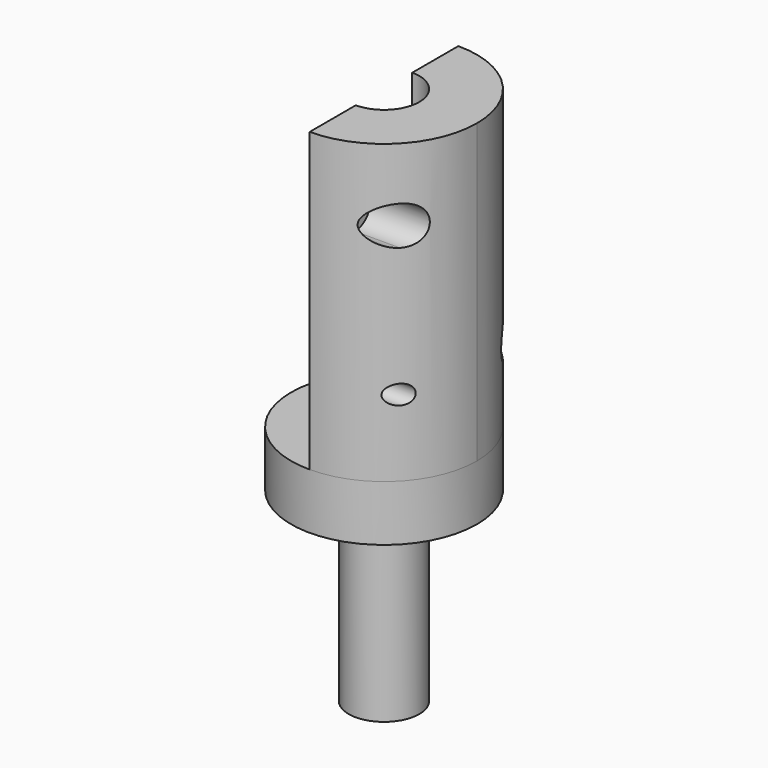
from build123d import *

# Parameters (mm, degrees)
F0_R      = 9.5
F1_DEPTH  = 50
F2_R      = 25
F3_DEPTH  = 15
F5_DEPTH  = 80
F6_R      = 2.6
F7_DEPTH  = 25.001
F9_R      = 5.25
F10_DEPTH = 25
F13_DEPTH = 3.5


with BuildPart() as f1:
    # F0 (on Top) → F1 (new body)
    with BuildSketch(Plane.XY):
        Circle(F0_R)
    extrude(amount=F1_DEPTH)

    # F2 (on face) → F3 (join)
    with BuildSketch(Plane.XY.offset(50)):
        Circle(F2_R)
    extrude(amount=F3_DEPTH)

    # F4 (on face) → F5 (join)
    with BuildSketch(Plane.XY.offset(65)):
        with BuildLine():
            ThreePointArc((0, 9.5), (9.5, 0), (0, -9.5))
            Line((0, -9.5), (0, -25))
            ThreePointArc((0, -25), (17.6776695297, -17.6776695297), (25, 0))
            ThreePointArc((25, 0), (17.6776695297, 17.6776695297), (0, 25))
            Line((0, 25), (0, 9.5))
        make_face()
    extrude(amount=F5_DEPTH)

    # F6 (on face) → F7 (cut, through all)
    with BuildSketch(Plane(origin=(0, 0, 0), x_dir=(0, -1, 0), z_dir=(-1, 0, 0))):
        with Locations((17.25, 85.5)):
            Circle(F6_R)
        with Locations((17.25, 125.5)):
            Circle(F6_R)
        with Locations((-17.25, 125.5)):
            Circle(F6_R)
        with Locations((-17.25, 85.5)):
            Circle(F6_R)
    extrude(amount=-F7_DEPTH, mode=Mode.SUBTRACT)

    # F9 (on offset) → F10 (cut)
    with BuildSketch(Plane(origin=(6, 0, 0), x_dir=(0, -1, 0), z_dir=(-1, 0, 0))):
        with BuildLine():
            ThreePointArc((17.25, 120.25), (20.9623106012, 121.7876893988), (22.5, 125.5))
            ThreePointArc((22.5, 125.5), (13.5376893988, 129.2123106012), (17.25, 120.25))
        make_face()
        with Locations((-17.25, 85.5)):
            Circle(F9_R)
    extrude(amount=-F10_DEPTH, mode=Mode.SUBTRACT)

    # F12 (on offset) → F13 (cut)
    with BuildSketch(Plane.YZ.offset(-9.5)):
        with BuildLine():
            Line((-3, 33), (-3, 7))
            ThreePointArc((-3, 7), (0, 4), (3, 7))
            Line((3, 7), (3, 33))
            ThreePointArc((3, 33), (0, 36), (-3, 33))
        make_face()
    extrude(amount=F13_DEPTH, mode=Mode.SUBTRACT)


solid = f1.part
